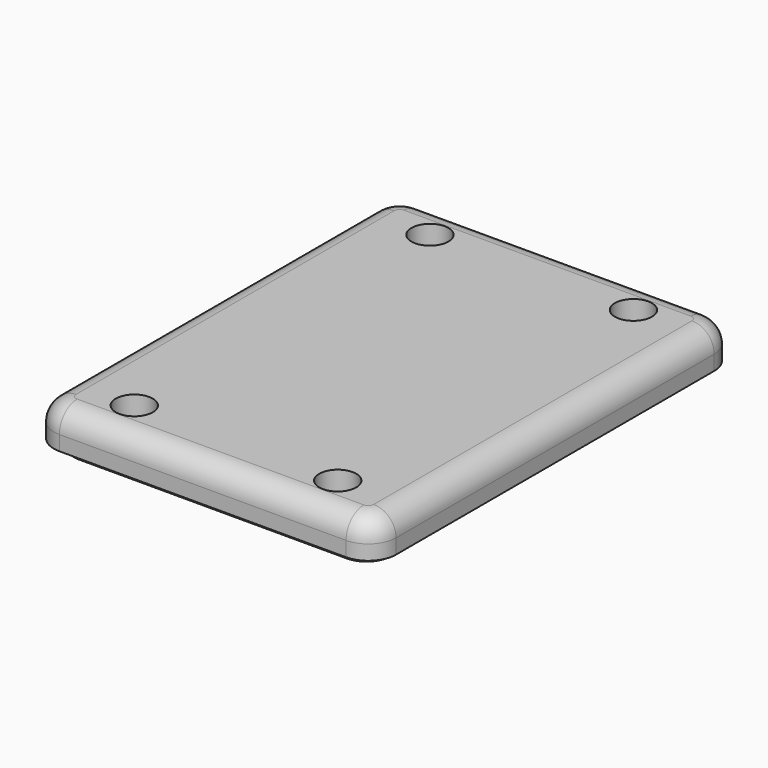
from build123d import *

# Parameters (mm, degrees)
PAD004_DEPTH    = 4
FILLET004_R     = 2.4
POCKET006_DEPTH = 3
SKETCH017_R     = 2.45
PAD012_DEPTH    = 4
SKETCH018_R     = 1.05
POCKET009_DEPTH = 5.001
SKETCH019_R     = 2
POCKET010_DEPTH = 3
PAD013_DEPTH    = 1
SKETCH022_W     = 28
SKETCH022_H     = 3
PAD014_DEPTH    = 3
FILLET009_R     = 1


with BuildPart() as part:
    # Sketch009 (on DatumPlane) → Pad004 (new body)
    with BuildSketch(Plane.XY.offset(6.5)):
        with BuildLine():
            Line((1.4, 47.5), (32.4, 47.5))
            ThreePointArc((35.4, 44.5), (34.52132, 46.62132), (32.4, 47.5))
            Line((35.4, 44.5), (35.4, 1.5))
            ThreePointArc((32.4, -1.5), (34.52132, -0.62132), (35.4, 1.5))
            Line((1.4, -1.5), (32.4, -1.5))
            ThreePointArc((-1.6, 1.5), (-0.72132, -0.62132), (1.4, -1.5))
            Line((-1.6, 44.5), (-1.6, 1.5))
            ThreePointArc((1.4, 47.5), (-0.72132, 46.62132), (-1.6, 44.5))
        make_face()
    extrude(amount=PAD004_DEPTH)

    # Fillet004
    fillet004_edges = [part.edges().sort_by_distance(p)[0] for p in [
        (16.9, 47.5, 10.5),
    ]]
    fillet(fillet004_edges, radius=FILLET004_R)

    # Sketch010 (on Face4 of Fillet004) → Pocket006 (cut)
    with BuildSketch(Plane(origin=(0, 0, 6.5), x_dir=(1, 0, 0), z_dir=(0, 0, -1))):
        with BuildLine():
            ThreePointArc((2.4, -0.5), (0.985786, -1.085786), (0.4, -2.5))
            Line((0.4, -2.5), (0.4, -43.5))
            ThreePointArc((0.4, -43.5), (0.985792, -44.914219), (2.400016, -45.5))
            Line((31.4, -45.5), (2.400016, -45.5))
            ThreePointArc((31.4, -45.5), (32.814214, -44.914214), (33.4, -43.5))
            Line((33.4, -2.5), (33.4, -43.5))
            ThreePointArc((33.4, -2.5), (32.814214, -1.085786), (31.4, -0.5))
            Line((2.4, -0.5), (31.4, -0.5))
        make_face()
    extrude(amount=-POCKET006_DEPTH, mode=Mode.SUBTRACT)

    # Sketch017 (on Face27 of Pocket006) → Pad012 (join)
    with BuildSketch(Plane(origin=(0, 0, 9.5), x_dir=(1, 0, 0), z_dir=(0, 0, -1))):
        with Locations((5.9, -3)):
            Circle(SKETCH017_R)
        with Locations((27.9, -3)):
            Circle(SKETCH017_R)
        with Locations((5.9, -42.96)):
            Circle(SKETCH017_R)
        with Locations((27.9, -42.96)):
            Circle(SKETCH017_R)
    extrude(amount=PAD012_DEPTH)

    # Sketch018 (on Face34 of Pad012) → Pocket009 (cut, through all)
    with BuildSketch(Plane(origin=(0, 0, 5.5), x_dir=(1, 0, 0), z_dir=(0, 0, -1))):
        with Locations((5.9, -3)):
            Circle(SKETCH018_R)
        with Locations((27.9, -3)):
            Circle(SKETCH018_R)
        with Locations((5.9, -42.96)):
            Circle(SKETCH018_R)
        with Locations((27.9, -42.96)):
            Circle(SKETCH018_R)
    extrude(amount=-POCKET009_DEPTH, mode=Mode.SUBTRACT)

    # Sketch019 (on Face9 of Pocket009) → Pocket010 (cut)
    with BuildSketch(Plane.XY.offset(10.5)):
        with Locations((27.9, 3)):
            Circle(SKETCH019_R)
        with Locations((5.9, 3)):
            Circle(SKETCH019_R)
        with Locations((27.9, 42.96)):
            Circle(SKETCH019_R)
        with Locations((5.9, 42.96)):
            Circle(SKETCH019_R)
    extrude(amount=-POCKET010_DEPTH, mode=Mode.SUBTRACT)

    # Sketch021 (on Face4 of Pocket010) → Pad013 (join)
    with BuildSketch(Plane(origin=(0, 0, 6.5), x_dir=(1, 0, 0), z_dir=(0, 0, -1))):
        with BuildLine():
            ThreePointArc((2.4, 0.15), (0.526163, -0.626172), (-0.25, -2.500013))
            Line((-0.25, -43.5), (-0.25, -2.500013))
            ThreePointArc((-0.25, -43.5), (0.526167, -45.373833), (2.4, -46.15))
            Line((31.4, -46.15), (2.4, -46.15))
            ThreePointArc((31.4, -46.15), (33.273833, -45.373833), (34.05, -43.5))
            Line((34.05, -2.5), (34.05, -43.5))
            ThreePointArc((34.05, -2.5), (33.273833, -0.626167), (31.4, 0.15))
            Line((2.4, 0.15), (31.4, 0.15))
        make_face()
        with BuildLine():
            ThreePointArc((2.4, -0.5), (0.985786, -1.085786), (0.4, -2.5))
            Line((0.4, -43.5), (0.4, -2.5))
            ThreePointArc((0.4, -43.5), (0.985786, -44.914214), (2.4, -45.5))
            Line((31.4, -45.5), (2.4, -45.5))
            ThreePointArc((31.4, -45.5), (32.814214, -44.914214), (33.4, -43.5))
            Line((33.4, -2.5), (33.4, -43.5))
            ThreePointArc((33.4, -2.5), (32.814214, -1.085787), (31.4, -0.5))
            Line((2.4, -0.5), (31.4, -0.5))
        make_face(mode=Mode.SUBTRACT)
    extrude(amount=PAD013_DEPTH)

    # Sketch022 (on Face60 of Pad013) → Pad014 (join)
    with BuildSketch(Plane(origin=(0, 0, 9.5), x_dir=(1, 0, 0), z_dir=(0, 0, -1))):
        with Locations((16.9, -11.48)):
            Rectangle(SKETCH022_W, SKETCH022_H)
        with Locations((16.9, -34.48)):
            Rectangle(SKETCH022_W, SKETCH022_H)
    extrude(amount=PAD014_DEPTH)

    # Fillet009
    fillet009_edges = [part.edges().sort_by_distance(p)[0] for p in [
        (2.9, 12.98, 8),
        (2.9, 9.98, 8),
        (30.9, 9.98, 8),
        (30.9, 12.98, 8),
        (30.9, 32.98, 8),
        (30.9, 35.98, 8),
        (2.9, 35.98, 8),
        (2.9, 32.98, 8),
    ]]
    fillet(fillet009_edges, radius=FILLET009_R)


solid = part.part
